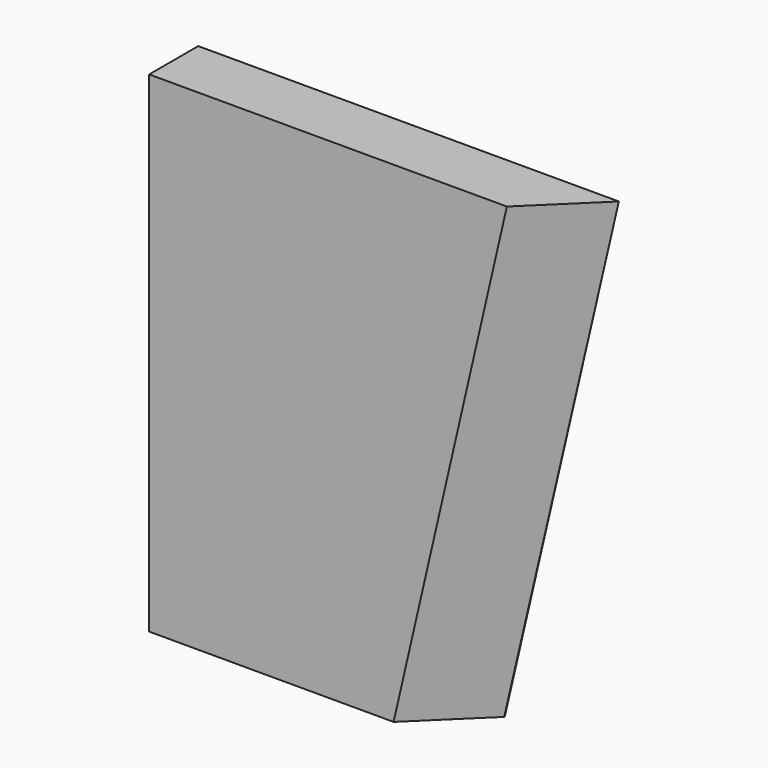
from build123d import *

# Parameters (mm, degrees)
F1_DEPTH = 12.7
F4_DEPTH = 118.595184


with BuildPart() as f1:
    # F0 (on Front) → F1 (new body)
    with BuildSketch(Plane.XZ):
        Polygon((87.122, 0), (0, 0), (0, -101.6), (63.5, -101.6), align=None)
    extrude(amount=F1_DEPTH)

    # F3 (on face) → F4 (cut, through all)
    with BuildSketch(Plane(origin=(4.408633, 0, 19.095886), x_dir=(0.97437, 0, -0.224951), z_dir=(-0.224951, 0, -0.97437))):
        Polygon((84.889069, 12.7), (72.189069, 12.7), (84.889069, 0), align=None)
    extrude(amount=F4_DEPTH, mode=Mode.SUBTRACT)


solid = f1.part
